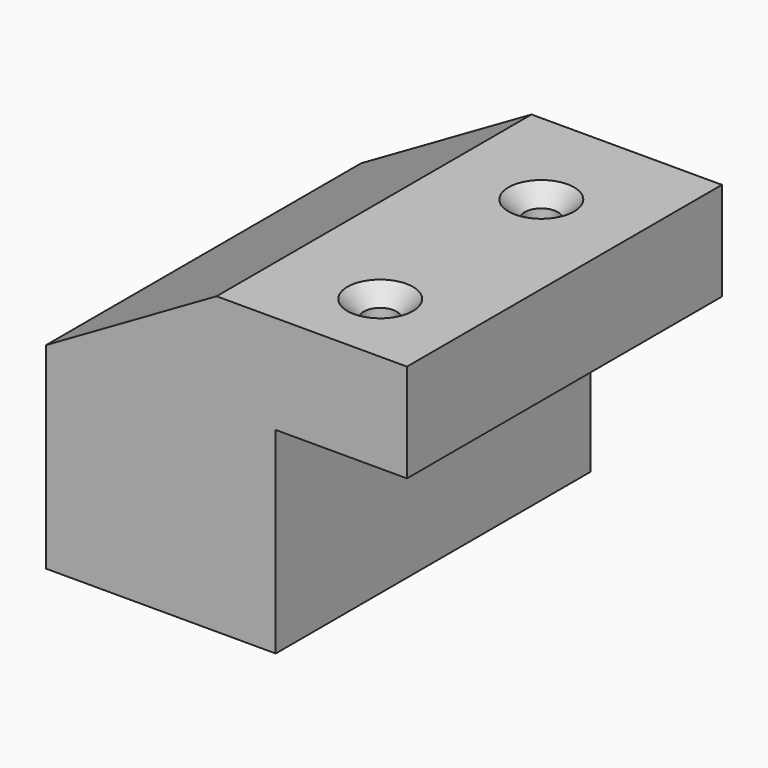
from build123d import *

# Parameters (mm, degrees)
F1_DEPTH       = 76.2
F3_D           = 6.35
F3_CSINK_D     = 12.7
F3_CSINK_ANGLE = 90


with BuildPart() as f1:
    # F0 (on Front) → F1 (new body)
    with BuildSketch(Plane.XZ):
        Polygon((-44.45, 0), (0, 0), (0, 38.1), (25.4, 38.1), (25.4, 57.15), (-11.454432, 57.15), (-44.45, 38.1), align=None)
    extrude(amount=F1_DEPTH)

    # F3 (through all)
    with Locations(Plane.XY.offset(57.15)):
        with Locations((8.407487, -61.435327), (7.069952, -20.785894)):
            CounterSinkHole(F3_D / 2, F3_CSINK_D / 2, counter_sink_angle=F3_CSINK_ANGLE)


solid = f1.part
